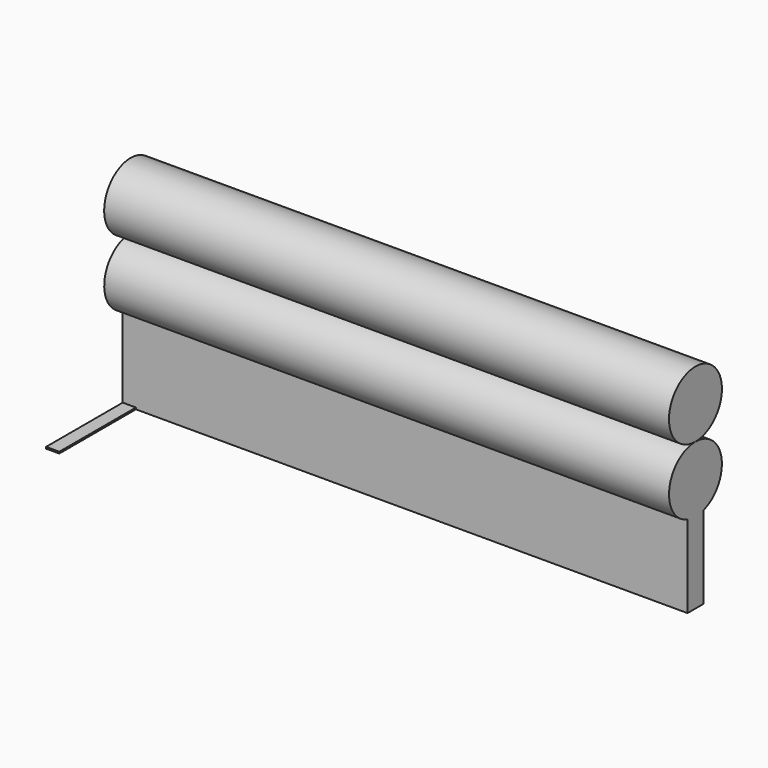
from build123d import *

# Parameters (mm, degrees)
F1_DEPTH = 2171.7
F2_W     = 50.8
F2_H     = 6.35
F3_DEPTH = 406.4


with BuildPart() as f1:
    # F0 (on Right) → F1 (new body)
    with BuildSketch(Plane.YZ):
        with BuildLine():
            ThreePointArc((127.254, 692.15), (-89.9821663331, 782.1321663331), (0, 564.896))
            ThreePointArc((0, 564.896), (89.9821663331, 602.1678336669), (127.254, 692.15))
        make_face()
    extrude(amount=F1_DEPTH)


with BuildPart() as f1b:
    # F0 (on Right) → F1, piece 2 (new body)
    with BuildSketch(Plane.YZ):
        with BuildLine():
            ThreePointArc((0, 310.896), (19.2732278089, 312.3669488213), (38.1, 316.74572142))
            ThreePointArc((38.1, 316.74572142), (102.3906734034, 362.7617867546), (127, 437.896))
            ThreePointArc((127, 437.896), (89.8025612107, 527.6985612107), (0, 564.896))
            Line((0, 564.896), (0, 437.896))
            Line((0, 437.896), (0, 310.896))
        make_face()
        with BuildLine():
            ThreePointArc((-38.1, 316.74572142), (-19.2732278089, 312.3669488213), (0, 310.896))
            Line((0, 310.896), (0, 437.896))
            Line((0, 437.896), (0, 564.896))
            ThreePointArc((0, 564.896), (-125.5290511787, 457.1692278089), (-38.1, 316.74572142))
        make_face()
        with BuildLine():
            Line((0, 0), (38.1, 0))
            Line((38.1, 0), (38.1, 316.74572142))
            ThreePointArc((38.1, 316.74572142), (19.2732278089, 312.3669488213), (0, 310.896))
            Line((0, 310.896), (0, 0))
        make_face()
        with BuildLine():
            Line((-38.1, 0), (0, 0))
            Line((0, 0), (0, 310.896))
            ThreePointArc((0, 310.896), (-19.2732278089, 312.3669488213), (-38.1, 316.74572142))
            Line((-38.1, 316.74572142), (-38.1, 0))
        make_face()
    extrude(amount=F1_DEPTH)

    # F2 (on Front) → F3 (join)
    with BuildSketch(Plane.XZ):
        with Locations((25.4, 3.175)):
            Rectangle(F2_W, F2_H)
    extrude(amount=F3_DEPTH)


solid = Compound([f1.part, f1b.part])
